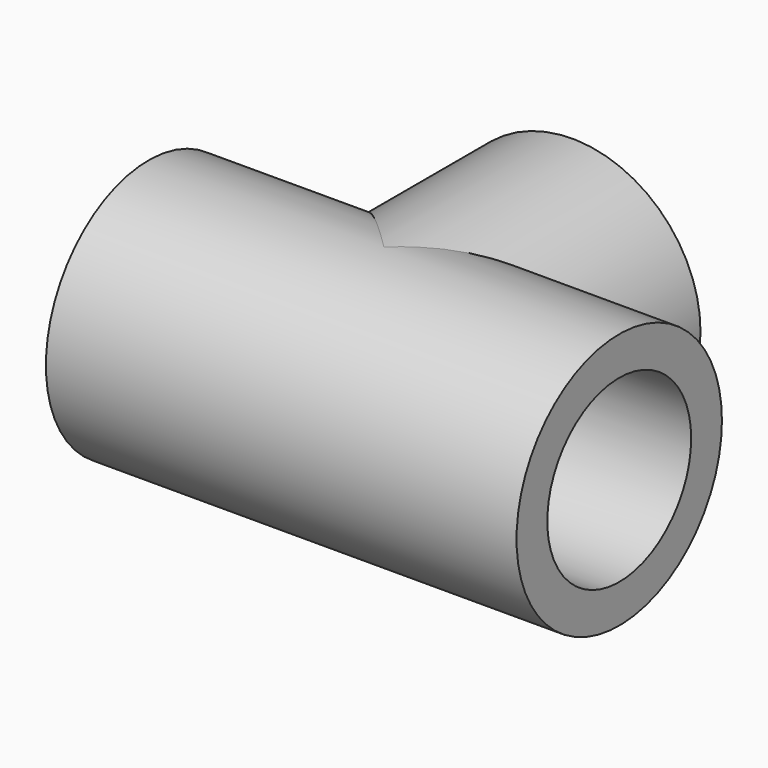
from build123d import *

# Parameters (mm, degrees)
F2_R          = 57.15
F3_DEPTH      = 104.775
F3_DEPTH_BACK = 104.775
F0_R          = 57.15
F4_DEPTH      = 104.775
F5_R          = 40.0304
F6_DEPTH      = 209.551
F1_R          = 40.0304
F7_DEPTH      = 104.776


with BuildPart() as f3:
    # F2 (on Right) → F3 (new body, two sides)
    with BuildSketch(Plane.YZ) as f3_sk:
        Circle(F2_R)
    extrude(amount=F3_DEPTH)
    extrude(f3_sk.sketch, amount=-F3_DEPTH_BACK)

    # F0 (on Front) → F4 (join)
    with BuildSketch(Plane.XZ):
        Circle(F0_R)
    extrude(amount=-F4_DEPTH)

    # F5 (on face) → F6 (cut, through all)
    with BuildSketch(Plane.YZ.offset(104.775)):
        Circle(F5_R)
    extrude(amount=-F6_DEPTH, mode=Mode.SUBTRACT)

    # F1 (on Front) → F7 (cut, through all)
    with BuildSketch(Plane.XZ):
        Circle(F1_R)
    extrude(amount=-F7_DEPTH, mode=Mode.SUBTRACT)


solid = f3.part
